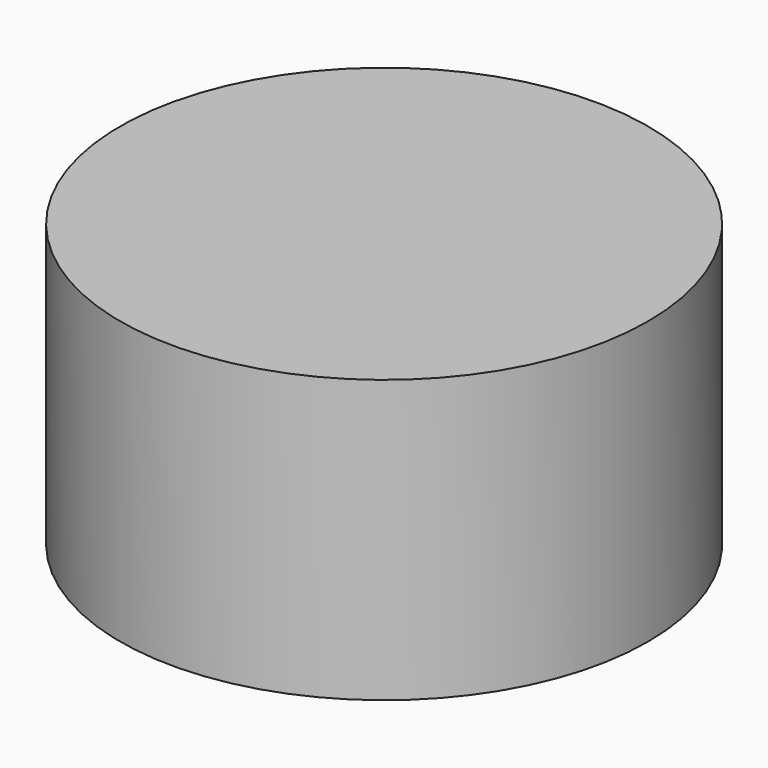
from build123d import *

# Parameters (mm, degrees)
PRISM010_DEPTH    = 1.1
CYLINDER056_R     = 2.34
CYLINDER056_DEPTH = 2.5


with BuildPart() as prism010:
    # Prism010 → Prism010 (new body)
    with BuildSketch(Plane.XY.offset(-23)):
        Polygon((1, 0), (0.5, 0.866025), (-0.5, 0.866025), (-1, 0), (-0.5, -0.866025), (0.5, -0.866025), align=None)
    extrude(amount=PRISM010_DEPTH)


with BuildPart() as cut045:
    # Cylinder056 → Cylinder056 (new body)
    with BuildSketch(Plane.XY.offset(-22.5)):
        Circle(CYLINDER056_R)
    extrude(amount=CYLINDER056_DEPTH)

    # Cut045: cut Prism010
    add(prism010.part, mode=Mode.SUBTRACT)


solid = cut045.part
